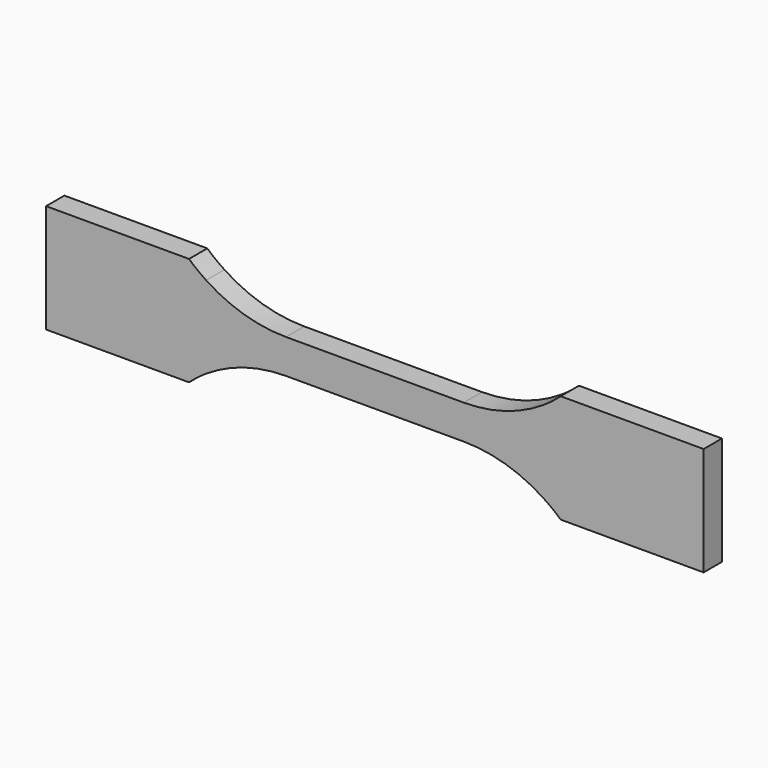
from build123d import *

# Parameters (mm, degrees)
F1_DEPTH = 2


with BuildPart() as f1:
    # F0 (on Front) → F1 (new body, symmetric)
    with BuildSketch(Plane.XZ):
        with BuildLine():
            Line((15.53091, 3), (0, 3))
            Line((0, 3), (-15.53091, 3))
            ThreePointArc((-15.53091, 3), (-22.825944, 4.070132), (-29.506281, 7.190355))
            ThreePointArc((-29.506281, 7.190355), (-33.188356, 8.910164), (-37.209241, 9.5))
            Line((-37.209241, 9.5), (-57.5, 9.5))
            Line((-57.5, 9.5), (-57.5, 0))
            Line((-57.5, 0), (-57.5, -9.5))
            Line((-57.5, -9.5), (-37.209241, -9.5))
            ThreePointArc((-37.209241, -9.5), (-33.188356, -8.910164), (-29.506281, -7.190355))
            ThreePointArc((-29.506281, -7.190355), (-22.825944, -4.070132), (-15.53091, -3))
            Line((-15.53091, -3), (0, -3))
            Line((0, -3), (15.53091, -3))
            ThreePointArc((15.53091, -3), (22.825944, -4.070132), (29.506281, -7.190355))
            ThreePointArc((29.506281, -7.190355), (33.188356, -8.910164), (37.209241, -9.5))
            Line((37.209241, -9.5), (57.5, -9.5))
            Line((57.5, -9.5), (57.5, 0))
            Line((57.5, 0), (57.5, 9.5))
            Line((57.5, 9.5), (37.209241, 9.5))
            ThreePointArc((37.209241, 9.5), (33.188356, 8.910164), (29.506281, 7.190355))
            ThreePointArc((29.506281, 7.190355), (22.825944, 4.070132), (15.53091, 3))
        make_face()
        with BuildLine():
            ThreePointArc((32.5, 9.5), (31.046178, 8.289394), (29.506281, 7.190355))
            ThreePointArc((29.506281, 7.190355), (33.188356, 8.910164), (37.209241, 9.5))
            Line((37.209241, 9.5), (32.5, 9.5))
        make_face()
        with BuildLine():
            ThreePointArc((-37.209241, 9.5), (-33.188356, 8.910164), (-29.506281, 7.190355))
            ThreePointArc((-29.506281, 7.190355), (-31.046178, 8.289394), (-32.5, 9.5))
            Line((-32.5, 9.5), (-37.209241, 9.5))
        make_face()
        with BuildLine():
            Line((32.5, -9.5), (37.209241, -9.5))
            ThreePointArc((37.209241, -9.5), (33.188356, -8.910164), (29.506281, -7.190355))
            ThreePointArc((29.506281, -7.190355), (31.046178, -8.289394), (32.5, -9.5))
        make_face()
        with BuildLine():
            ThreePointArc((-29.506281, -7.190355), (-33.188356, -8.910164), (-37.209241, -9.5))
            Line((-37.209241, -9.5), (-32.5, -9.5))
            ThreePointArc((-32.5, -9.5), (-31.046178, -8.289394), (-29.506281, -7.190355))
        make_face()
    extrude(amount=F1_DEPTH, both=True)


solid = f1.part
